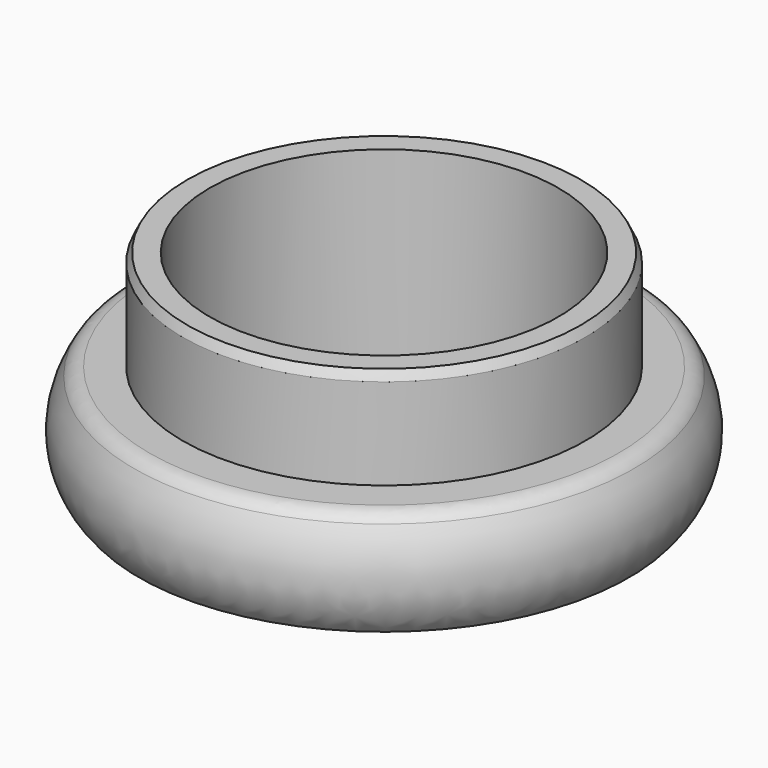
from build123d import *

# Parameters (mm, degrees)
F2_R       = 2
F3_SIZE2   = 0.5
F3_SIZE    = 1
F3_2_SIZE2 = 0.5
F3_2_SIZE  = 1


with BuildPart() as f1:
    # F0 (on Front) → F1 (revolve)
    with BuildSketch(Plane.XZ):
        with BuildLine():
            Line((-19.05, 0), (-22, 0))
            Line((-22, 0), (-22, -10.9611023217))
            Line((-22, -10.9611023217), (-26.6634617001, -10.9611023217))
            add(Edge.make_bspline(
                [(-26.6634617001, -10.9611023217), (-29.7804344445, -14.9203110486), (-29.3020680547, -19.812868908), (-26.7707351595, -22.5467085838)],
                knots=[0, 0, 0, 0, 11.5861028847, 11.5861028847, 11.5861028847, 11.5861028847], degree=3))
            Line((-26.7707351595, -22.5467085838), (-22.5411150604, -22.5467085838))
            Line((-22.5411150604, -22.5467085838), (-22.5411150604, -23.8788612187))
            Line((-22.5411150604, -23.8788612187), (-20.7105297595, -25))
            Line((-20.7105297595, -25), (-19.05, -25))
            Line((-19.05, -25), (-19.05, 0))
        make_face()
    revolve(axis=Axis((0, 0, -12.5), (0, 0, -1)))

    # F2
    f2_edges = [f1.edges().sort_by_distance(p)[0] for p in [
        (26.663462, 0, -10.961102),
    ]]
    fillet(f2_edges, radius=F2_R)

    # F3
    f3_edges = [f1.edges().sort_by_distance(p)[0] for p in [
        (19.05, 0, -25),
    ]]
    f3_side = f1.faces().sort_by_distance((19.05, 0, -12.5))[0]
    chamfer(f3_edges, length=F3_SIZE, length2=F3_SIZE2, reference=f3_side)

    # F3#2
    f3_2_edges = [f1.edges().sort_by_distance(p)[0] for p in [
        (22, 0, 0),
    ]]
    f3_2_side = f1.faces().sort_by_distance((22, 0, -5.480551))[0]
    chamfer(f3_2_edges, length=F3_2_SIZE, length2=F3_2_SIZE2, reference=f3_2_side)


solid = f1.part
